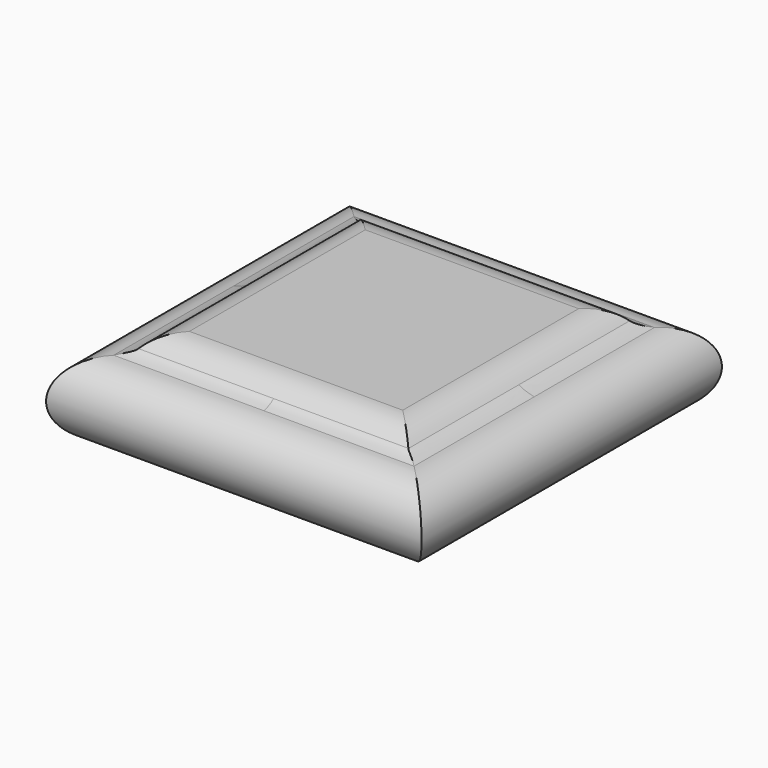
from build123d import *

# Parameters (mm, degrees)
F1_DEPTH = 12.7
F3_DEPTH = 12.7


with BuildPart() as f1:
    # F0 (on Front) → F1 (new body, symmetric)
    with BuildSketch(Plane.XZ):
        with BuildLine():
            Line((-10.16, 0), (0, 0))
            Line((0, 0), (10.16, 0))
            ThreePointArc((10.16, 0), (12.7, 2.54), (10.16, 5.08))
            add(Edge.make_bspline(
                [(9.1369110942, 5.4736492165), (9.2246549673, 5.3724196763), (9.4934022425, 5.2444997306), (10.16, 5.08)],
                knots=[0.7265559346, 0.7265559346, 0.7265559346, 0.7265559346, 1, 1, 1, 1], degree=3))
            ThreePointArc((9.1369110942, 5.4736492165), (8.2725415251, 6.120548529), (7.2175697269, 6.35))
            Line((7.2175697269, 6.35), (-7.2175697269, 6.35))
            ThreePointArc((-7.2175697269, 6.35), (-8.2725415251, 6.120548529), (-9.1369110942, 5.4736492165))
            add(Edge.make_bspline(
                [(-10.16, 5.08), (-9.4934022425, 5.2444997306), (-9.2246549673, 5.3724196763), (-9.1369110942, 5.4736492165)],
                knots=[0, 0, 0, 0, 0.2734440654, 0.2734440654, 0.2734440654, 0.2734440654], degree=3))
            ThreePointArc((-10.16, 5.08), (-12.7, 2.54), (-10.16, 0))
        make_face()
    extrude(amount=F1_DEPTH, both=True)

    # F2 (on Right) → F3 (cut, symmetric)
    with BuildSketch(Plane.YZ):
        with BuildLine():
            ThreePointArc((-10.16, 0), (-12.7, 2.54), (-10.16, 5.08))
            add(Edge.make_bspline(
                [(-10.16, 5.08), (-9.7070633435, 5.191773311), (-9.482531441, 5.3292388221), (-9.3516339559, 5.4793500566)],
                knots=[0, 0, 0, 0, 0.3715968977, 0.3715968977, 0.3715968977, 0.3715968977], degree=3))
            add(Edge.make_bspline(
                [(-9.3516339559, 5.4793500566), (-9.285465993, 5.5552304647), (-9.144148862, 5.8198918084), (-9.0757811175, 6.1018571053), (-8.89, 6.35)],
                knots=[0.3715968977, 0.3715968977, 0.3715968977, 0.3715968977, 0.5594370973, 1, 1, 1, 1], degree=3))
            Line((-8.89, 6.35), (-20.1372488356, 6.35))
            Line((-20.1372488356, 6.35), (-20.1372488356, 0))
            Line((-20.1372488356, 0), (-10.16, 0))
        make_face()
        with BuildLine():
            add(Edge.make_bspline(
                [(-9.3516339559, 5.4793500566), (-9.285465993, 5.5552304647), (-9.144148862, 5.8198918084), (-9.0757811175, 6.1018571053), (-8.89, 6.35)],
                knots=[0.3715968977, 0.3715968977, 0.3715968977, 0.3715968977, 0.5594370973, 1, 1, 1, 1], degree=3))
            ThreePointArc((-9.3516339559, 5.4793500566), (-8.4887836321, 6.1221147402), (-7.4372488356, 6.35))
            Line((-7.4372488356, 6.35), (-8.89, 6.35))
        make_face()
        with BuildLine():
            Line((20.1372489148, 6.35), (8.89, 6.35))
            add(Edge.make_bspline(
                [(8.89, 6.35), (9.0757811666, 6.1018571408), (9.1441488374, 5.8198917766), (9.2854659662, 5.5552305731), (9.3516338927, 5.4793502198)],
                knots=[0, 0, 0, 0, 0.4405629027, 0.6284030307, 0.6284030307, 0.6284030307, 0.6284030307], degree=3))
            add(Edge.make_bspline(
                [(9.3516338927, 5.4793502198), (9.4825313808, 5.3292390078), (9.7070632977, 5.1917735016), (10.16, 5.08)],
                knots=[0.6284030307, 0.6284030307, 0.6284030307, 0.6284030307, 1, 1, 1, 1], degree=3))
            ThreePointArc((10.16, 5.08), (12.7, 2.54), (10.16, 0))
            Line((10.16, 0), (20.1372488356, 0))
            Line((20.1372488356, 0), (20.1372489148, 6.35))
        make_face()
        with BuildLine():
            add(Edge.make_bspline(
                [(8.89, 6.35), (9.0757811666, 6.1018571408), (9.1441488374, 5.8198917766), (9.2854659662, 5.5552305731), (9.3516338927, 5.4793502198)],
                knots=[0, 0, 0, 0, 0.4405629027, 0.6284030307, 0.6284030307, 0.6284030307, 0.6284030307], degree=3))
            Line((8.89, 6.35), (7.4372489148, 6.35))
            ThreePointArc((7.4372489148, 6.35), (8.4887836126, 6.122114785), (9.3516338927, 5.4793502198))
        make_face()
    extrude(amount=F3_DEPTH, both=True, mode=Mode.SUBTRACT)


solid = f1.part
